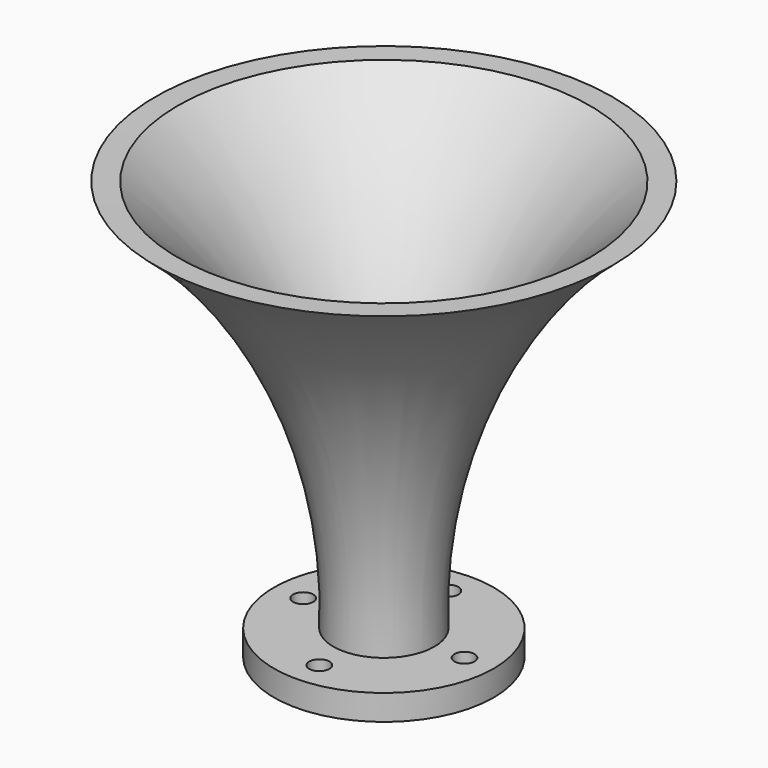
from build123d import *

# Parameters (mm, degrees)
F3_D     = 3.175
F3_DEPTH = 4.0184676105


with BuildPart() as f1:
    # F0 (on Front) → F1 (revolve)
    with BuildSketch(Plane.XZ):
        with BuildLine():
            ThreePointArc((7.9571050592, 0), (14.6659024959, 34.2816370952), (35.9884910285, 61.9508586824))
            Line((35.9884910285, 61.9508586824), (32.4289649725, 61.8930459023))
            ThreePointArc((32.4289649725, 61.8930459023), (11.7834871411, 34.0817644341), (5.6080142967, 0))
            Line((5.6080142967, 0), (7.9571050592, 0))
        make_face()
        Polygon((17.3095203936, 0), (7.9571050592, 0), (5.6080142967, 0), (5.6080142967, -4.0174676105), (17.3095203936, -4.0174676105), align=None)
    revolve(axis=Axis((0, 0, 30.9754293412), (0, 0, 1)))

    # F3 (through all, one way)
    with BuildSketch(Plane.XY):
        with Locations((-12.7, 0), (0, -12.7), (12.7, 0), (0, 12.7)):
            Circle(F3_D / 2)
    extrude(amount=-F3_DEPTH, mode=Mode.SUBTRACT)


solid = f1.part
